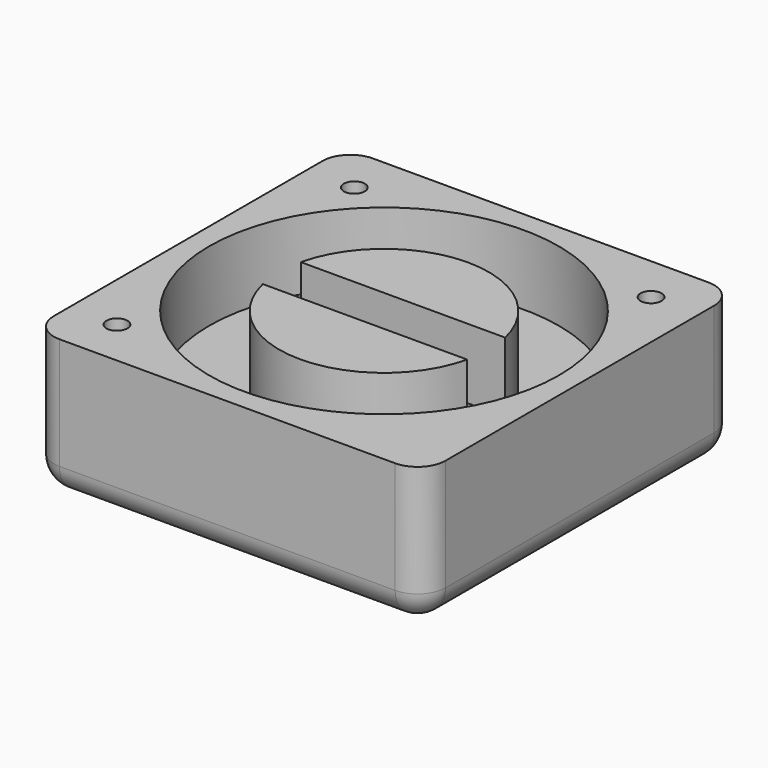
from build123d import *

# Parameters (mm, degrees)
F0_W     = 71.12
F0_H     = 71.12
F1_DEPTH = 25.4
F2_R     = 31.75
F3_DEPTH = 12.7
F4_R     = 19.05
F5_DEPTH = 12.7
F6_R     = 1.905
F7_DEPTH = 25.401
F9_DEPTH = 12.7
F10_R    = 5.08


with BuildPart() as f1:
    # F0 (on Top) → F1 (new body)
    with BuildSketch(Plane.XY):
        Rectangle(F0_W, F0_H)
    extrude(amount=F1_DEPTH)

    # F2 (on face) → F3 (cut)
    with BuildSketch(Plane.XY.offset(25.4)):
        Circle(F2_R)
    extrude(amount=-F3_DEPTH, mode=Mode.SUBTRACT)

    # F4 (on face) → F5 (join)
    with BuildSketch(Plane.XY.offset(12.7)):
        Circle(F4_R)
    extrude(amount=F5_DEPTH)

    # F6 (on face) → F7 (cut, through all)
    with BuildSketch(Plane.XY.offset(25.4)):
        with Locations((-26.9407683632, -26.9407683632)):
            Circle(F6_R)
        with Locations((-26.9407683632, 26.9407683632)):
            Circle(F6_R)
        with Locations((26.9407683632, 26.9407683632)):
            Circle(F6_R)
    extrude(amount=-F7_DEPTH, mode=Mode.SUBTRACT)

    # F8 (on face) → F9 (cut)
    with BuildSketch(Plane.XY.offset(25.4)):
        with BuildLine():
            ThreePointArc((18.5544223232, -4.3169332), (19.05, 0), (18.5544223232, 4.3169332))
            Line((18.5544223232, 4.3169332), (-18.5544223232, 4.3169332))
            ThreePointArc((-18.5544223232, 4.3169332), (-19.05, 0), (-18.5544223232, -4.3169332))
            Line((-18.5544223232, -4.3169332), (18.5544223232, -4.3169332))
        make_face()
    extrude(amount=-F9_DEPTH, mode=Mode.SUBTRACT)

    # F10
    f10_edges = [f1.edges().sort_by_distance(p)[0] for p in [
        (-35.56, -35.56, 12.7),
        (0, -35.56, 0),
        (-35.56, 0, 0),
        (0, 35.56, 0),
        (35.56, 0, 0),
        (35.56, -35.56, 12.7),
        (35.56, 35.56, 12.7),
        (-35.56, 35.56, 12.7),
    ]]
    fillet(f10_edges, radius=F10_R)


solid = f1.part
